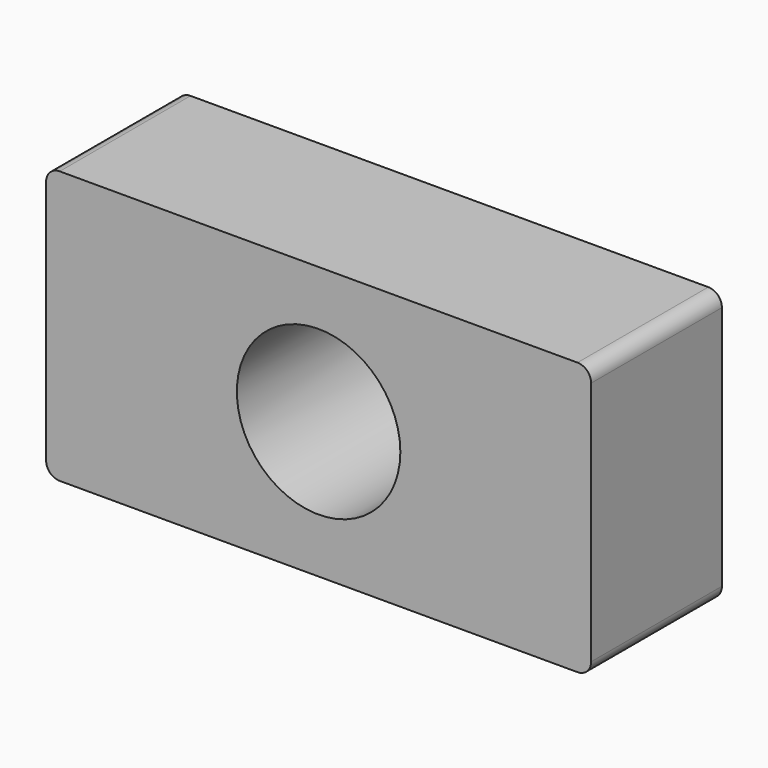
from build123d import *

# Parameters (mm, degrees)
F0_W     = 254
F0_H     = 127
F1_DEPTH = 38.1
F2_R     = 6.35
F3_R     = 38.1
F4_DEPTH = 76.201


with BuildPart() as f1:
    # F0 (on Front) → F1 (new body, symmetric)
    with BuildSketch(Plane.XZ):
        Rectangle(F0_W, F0_H)
    extrude(amount=F1_DEPTH, both=True)

    # F2
    f2_edges = [f1.edges().sort_by_distance(p)[0] for p in [
        (-127, 0, 63.5),
        (127, 0, 63.5),
        (-127, 0, -63.5),
        (127, 0, -63.5),
    ]]
    fillet(f2_edges, radius=F2_R)

    # F3 (on face) → F4 (cut, through all)
    with BuildSketch(Plane.XZ.offset(38.1)):
        Circle(F3_R)
    extrude(amount=-F4_DEPTH, mode=Mode.SUBTRACT)


solid = f1.part
